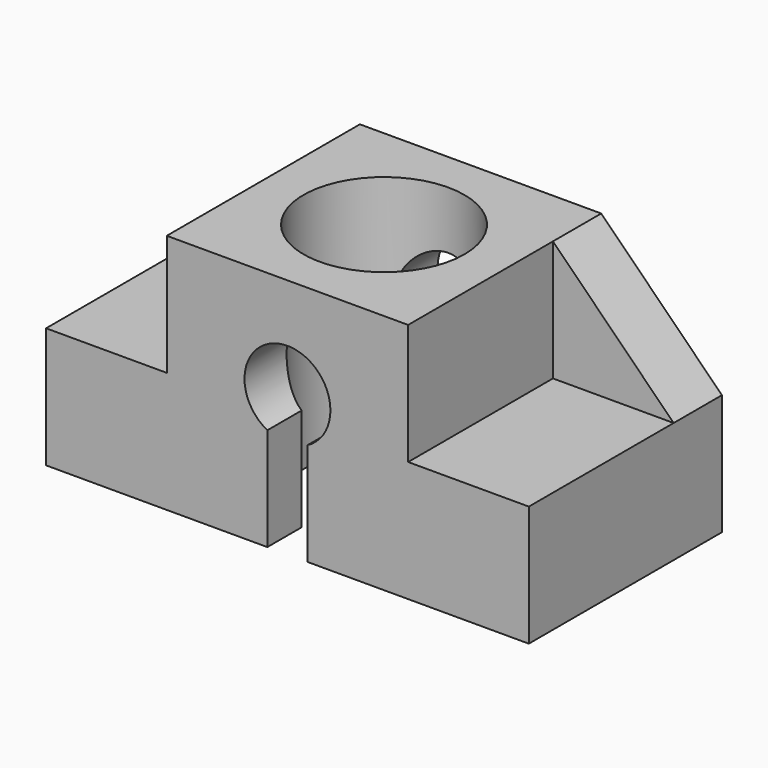
from build123d import *

# Parameters (mm, degrees)
F1_DEPTH = 60
F2_W     = 30
F2_H     = 30
F3_DEPTH = 45
F5_DEPTH = 15.001
F7_DEPTH = 15.001
F8_R     = 20
F9_DEPTH = 60.001


with BuildPart() as f1:
    # F0 (on Front) → F1 (new body)
    with BuildSketch(Plane.XZ):
        with BuildLine():
            Line((60, 30), (-60, 30))
            Line((-60, 30), (-60, -30))
            Line((-60, -30), (-5, -30))
            Line((-5, -30), (-5, -4.434966))
            ThreePointArc((-5, -4.434966), (0, 15.677948), (5, -4.434966))
            Line((5, -4.434966), (5, -30))
            Line((5, -30), (60, -30))
            Line((60, -30), (60, 30))
        make_face()
    extrude(amount=F1_DEPTH)

    # F2 (on face) → F3 (cut)
    with BuildSketch(Plane.XZ.offset(60)):
        with Locations((-45, 15)):
            Rectangle(F2_W, F2_H)
        with Locations((45, 15)):
            Rectangle(F2_W, F2_H)
    extrude(amount=-F3_DEPTH, mode=Mode.SUBTRACT)

    # F4 (on face) → F5 (cut, through all)
    with BuildSketch(Plane.XZ.offset(15)):
        Polygon((-60, 0), (-30, 30), (-60, 30), align=None)
    extrude(amount=-F5_DEPTH, mode=Mode.SUBTRACT)

    # F6 (on face) → F7 (cut, through all)
    with BuildSketch(Plane.XZ.offset(15)):
        Polygon((60, 30), (30, 30), (60, 0), align=None)
    extrude(amount=-F7_DEPTH, mode=Mode.SUBTRACT)

    # F8 (on face) → F9 (cut, through all)
    with BuildSketch(Plane.XY.offset(30)):
        with Locations((0, -30)):
            Circle(F8_R)
    extrude(amount=-F9_DEPTH, mode=Mode.SUBTRACT)


solid = f1.part
